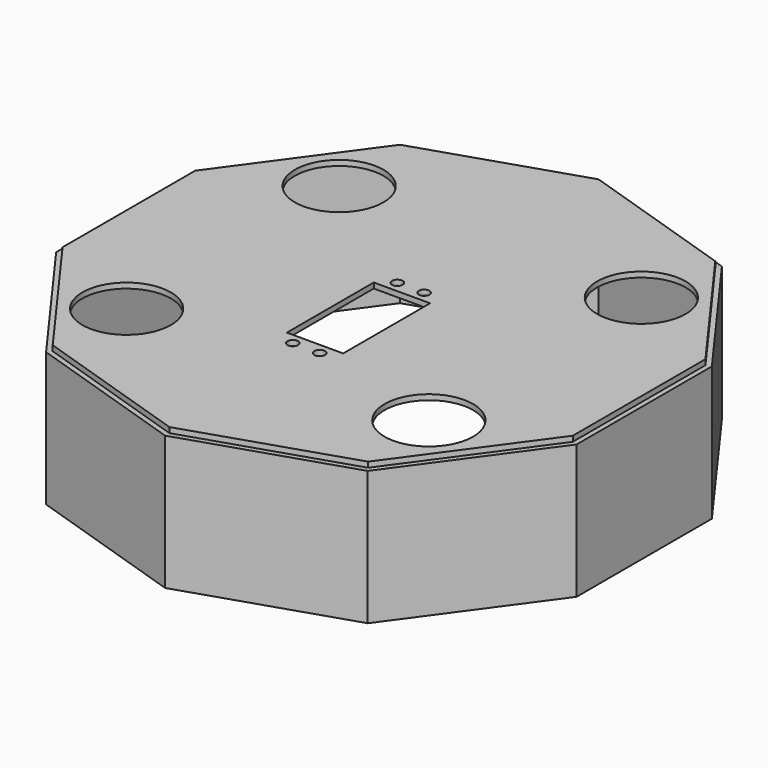
from build123d import *

# Parameters (mm, degrees)
F0_R     = 16.5
F0_R_2   = 2
F0_W     = 21
F0_H     = 40.5
F1_DEPTH = 2
F2_DEPTH = 50


with BuildPart() as f1:
    # F0 (on Top) → F1 (new body)
    with BuildSketch(Plane.XY):
        Polygon((58.778525, 80.901699), (0, 100), (-58.778525, 80.901699), (-95.105652, 30.901699), (-95.105652, -30.901699), (-58.778525, -80.901699), (0, -100), (58.778525, -80.901699), (95.105652, -30.901699), (95.105652, 30.901699), align=None)
        with Locations((-56.33234, -49.514315)):
            Circle(F0_R, mode=Mode.SUBTRACT)
        with Locations((-5, -36.25)):
            Circle(F0_R_2, mode=Mode.SUBTRACT)
        with Locations((5, -36.25)):
            Circle(F0_R_2, mode=Mode.SUBTRACT)
        with Locations((0, -11.9)):
            Rectangle(F0_W, F0_H, mode=Mode.SUBTRACT)
        with Locations((56.33234, -49.514315)):
            Circle(F0_R, mode=Mode.SUBTRACT)
        with Locations((-56.33234, 49.514315)):
            Circle(F0_R, mode=Mode.SUBTRACT)
        with Locations((-5, 12.45)):
            Circle(F0_R_2, mode=Mode.SUBTRACT)
        with Locations((5, 12.45)):
            Circle(F0_R_2, mode=Mode.SUBTRACT)
        with Locations((56.33234, 49.514315)):
            Circle(F0_R, mode=Mode.SUBTRACT)
    extrude(amount=F1_DEPTH)


with BuildPart() as f2:
    # F0 (on Top) → F2 (new body)
    with BuildSketch(Plane.XY):
        Polygon((59.954096, 82.519733), (0, 102), (-59.954096, 82.519733), (-97.007765, 31.519733), (-97.007765, -31.519733), (-59.954096, -82.519733), (0, -102), (59.954096, -82.519733), (97.007765, -31.519733), (97.007765, 31.519733), align=None)
        Polygon((-58.778525, 80.901699), (0, 100), (58.778525, 80.901699), (95.105652, 30.901699), (95.105652, -30.901699), (58.778525, -80.901699), (0, -100), (-58.778525, -80.901699), (-95.105652, -30.901699), (-95.105652, 30.901699), align=None, mode=Mode.SUBTRACT)
    extrude(amount=-F2_DEPTH)


solid = Compound([f1.part, f2.part])
